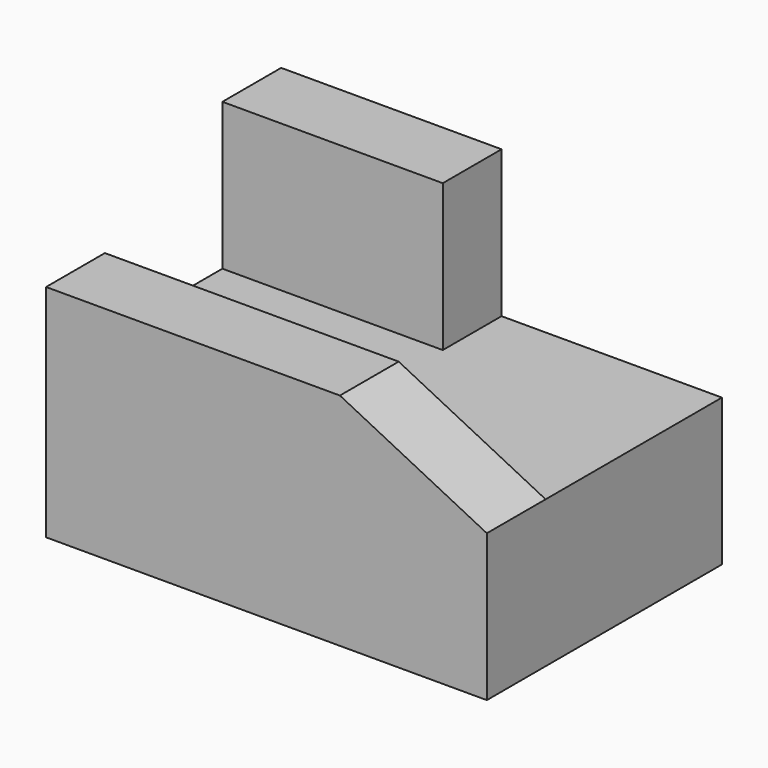
from build123d import *

# Parameters (mm, degrees)
F0_W     = 60
F0_H     = 40
F1_DEPTH = 20
F2_W     = 60
F2_H     = 10
F3_DEPTH = 10
F4_SIZE2 = 20
F4_SIZE  = 10
F5_W     = 30
F5_H     = 20
F6_DEPTH = 10


with BuildPart() as f1:
    # F0 (on Top) → F1 (new body)
    with BuildSketch(Plane.XY):
        with Locations((30, 20)):
            Rectangle(F0_W, F0_H)
    extrude(amount=F1_DEPTH)

    # F2 (on face) → F3 (join)
    with BuildSketch(Plane.XZ):
        with Locations((30, 25)):
            Rectangle(F2_W, F2_H)
    extrude(amount=-F3_DEPTH)

    # F4
    f4_edges = [f1.edges().sort_by_distance(p)[0] for p in [
        (60, 5, 30),
    ]]
    chamfer(f4_edges, length=F4_SIZE, length2=F4_SIZE2)

    # F5 (on face) → F6 (join)
    with BuildSketch(Plane(origin=(0, 40, 0), x_dir=(-1, 0, 0), z_dir=(0, 1, 0))):
        with Locations((-15, 30)):
            Rectangle(F5_W, F5_H)
    extrude(amount=-F6_DEPTH)


solid = f1.part
